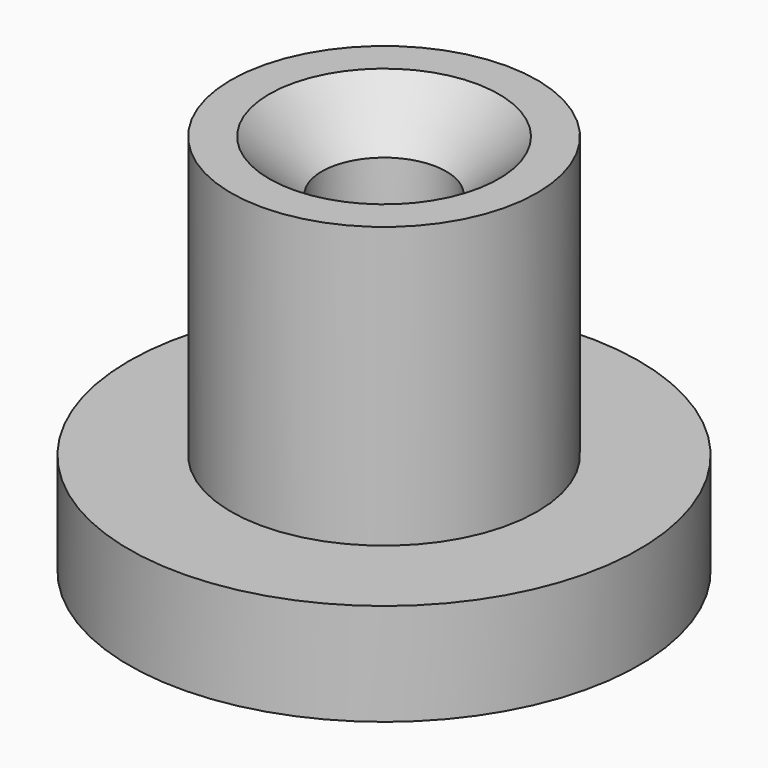
from build123d import *

# Parameters (mm, degrees)
F2_SIZE = 3
F3_SIZE = 2


with BuildPart() as f1:
    # F0 (on Front) → F1 (revolve)
    with BuildSketch(Plane.XZ):
        Polygon((-1.2, 0), (-1.2, 5), (-2.2, 5), (-2.5, 15), (-6, 15), (-6, 4), (-10, 4), (-10, 0), align=None)
    revolve(axis=Axis((0, 0, 3.657732), (0, 0, -1)))

    # F2
    f2_edges = [f1.edges().sort_by_distance(p)[0] for p in [
        (1.2, 0, 0),
    ]]
    chamfer(f2_edges, length=F2_SIZE)

    # F3
    f3_edges = [f1.edges().sort_by_distance(p)[0] for p in [
        (2.5, 0, 15),
    ]]
    chamfer(f3_edges, length=F3_SIZE)


solid = f1.part
